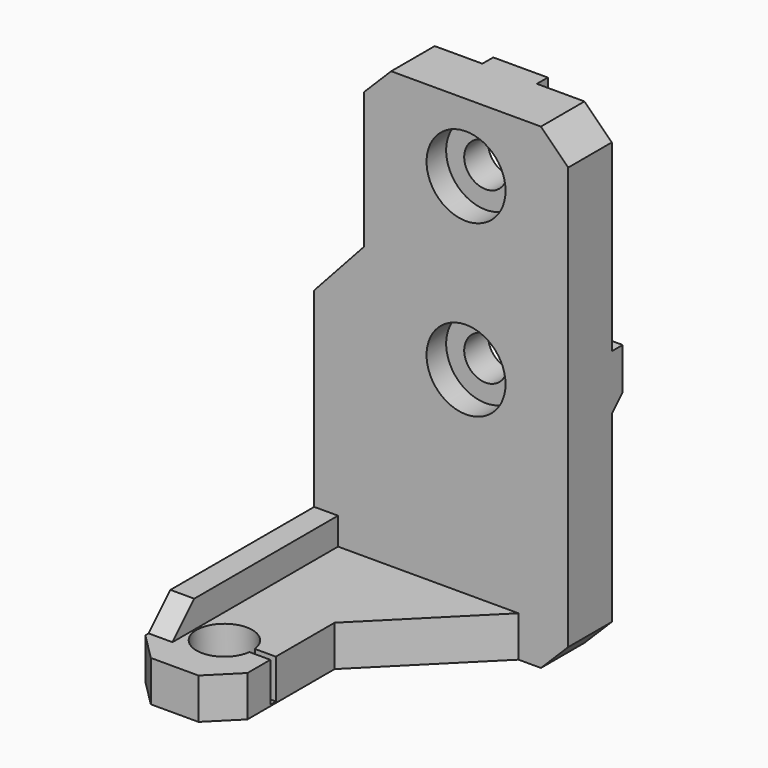
from build123d import *

# Parameters (mm, degrees)
SKETCH_W        = 30
SKETCH_H        = 70
PAD_DEPTH       = 8
PAD001_DEPTH    = 8
SKETCH002_W     = 15
SKETCH002_H     = 43
PAD002_DEPTH    = 6
SKETCH003_R     = 4.1
POCKET_DEPTH    = 70.001
PAD003_DEPTH    = 3.5
CHAMFER_SIZE    = 15
SKETCH005_R     = 3.15
POCKET001_DEPTH = 8.001
SKETCH006_R     = 5.8
POCKET002_DEPTH = 3.6
CHAMFER001_SIZE = 4
CHAMFER002_SIZE = 4
CHAMFER003_SIZE = 3
SKETCH007_W     = 10.5
SKETCH007_H     = 8
SKETCH007_W_2   = 8
SKETCH007_H_2   = 5
SKETCH007_H_3   = 5.5
PAD004_DEPTH    = 2
CHAMFER004_SIZE = 1.9
SKETCH008_W     = 3.080602
SKETCH008_H     = 1
POCKET003_DEPTH = 5.8


with BuildPart() as part:
    # Sketch → Pad (new body)
    with BuildSketch(Plane.XZ):
        with Locations((22.3, 35)):
            Rectangle(SKETCH_W, SKETCH_H)
    extrude(amount=PAD_DEPTH)

    # Sketch001 (on Face6 of Pad) → Pad001 (join)
    with BuildSketch(Plane.XZ.offset(8)):
        Polygon((7.3, 46), (0, 38), (0, 0), (7.3, 0), align=None)
    extrude(amount=-PAD001_DEPTH)

    # Sketch002 (on Face8 of Pad001) → Pad002 (join)
    with BuildSketch(Plane(origin=(0, 0, 0), x_dir=(1, 0, 0), z_dir=(0, 0, -1))):
        with Locations((7.5, 21.5)):
            Rectangle(SKETCH002_W, SKETCH002_H)
    extrude(amount=-PAD002_DEPTH)

    # Sketch003 (on Face10 of Pad002) → Pocket (cut, through all)
    with BuildSketch(Plane(origin=(0, 0, 0), x_dir=(1, 0, 0), z_dir=(0, 0, -1))):
        with Locations((7.85, 34.3)):
            Circle(SKETCH003_R)
    extrude(amount=-POCKET_DEPTH, mode=Mode.SUBTRACT)

    # Sketch004 (on Face8 of Pocket) → Pad003 (join)
    with BuildSketch(Plane(origin=(0, 0, 0), x_dir=(0, 0, -1), z_dir=(-1, 0, 0))):
        Polygon((-6, 8), (-6, 38.4), (-10, 34.4), (-10, 8), align=None)
    extrude(amount=-PAD003_DEPTH)

    # Chamfer
    chamfer_edges = [part.edges().sort_by_distance(p)[0] for p in [
        (15, -8, 3),
    ]]
    chamfer(chamfer_edges, length=CHAMFER_SIZE)

    # Sketch005 (on Face1 of Chamfer) → Pocket001 (cut, through all)
    with BuildSketch(Plane.XZ.offset(8)):
        with Locations((22.3, 35)):
            Circle(SKETCH005_R)
        with Locations((22.3, 60)):
            Circle(SKETCH005_R)
    extrude(amount=-POCKET001_DEPTH, mode=Mode.SUBTRACT)

    # Sketch006 (on Face1 of Pocket001) → Pocket002 (cut)
    with BuildSketch(Plane.XZ.offset(8)):
        with Locations((22.3, 60)):
            Circle(SKETCH006_R)
        with Locations((22.3, 35)):
            Circle(SKETCH006_R)
    extrude(amount=-POCKET002_DEPTH, mode=Mode.SUBTRACT)

    # Chamfer001
    chamfer001_edges = [part.edges().sort_by_distance(p)[0] for p in [
        (37.3, -4, 70),
        (7.3, -4, 70),
        (37.3, -4, 0),
    ]]
    chamfer(chamfer001_edges, length=CHAMFER001_SIZE)

    # Chamfer002
    chamfer002_edges = [part.edges().sort_by_distance(p)[0] for p in [
        (15, -43, 3),
        (0, -43, 3),
    ]]
    chamfer(chamfer002_edges, length=CHAMFER002_SIZE)

    # Chamfer003
    chamfer003_edges = [part.edges().sort_by_distance(p)[0] for p in [
        (0, 0, 19),
    ]]
    chamfer(chamfer003_edges, length=CHAMFER003_SIZE)

    # Sketch007 (on Face5 of Chamfer003) → Pad004 (join)
    with BuildSketch(Plane(origin=(0, 0, 0), x_dir=(1, 0, 0), z_dir=(0, 1, 0))):
        with Locations((12.55, -35)):
            Rectangle(SKETCH007_W, SKETCH007_H)
        with Locations((32.05, -35)):
            Rectangle(SKETCH007_W, SKETCH007_H)
        with Locations((22.3, -53)):
            Rectangle(SKETCH007_W_2, SKETCH007_H_2)
        with Locations((22.3, -67.25)):
            Rectangle(SKETCH007_W_2, SKETCH007_H_3)
    extrude(amount=PAD004_DEPTH)

    # Chamfer004
    chamfer004_edges = [part.edges().sort_by_distance(p)[0] for p in [
        (32.05, 2, 31),
        (12.55, 2, 31),
        (22.3, 2, 50.5),
        (22.3, 2, 64.5),
    ]]
    chamfer(chamfer004_edges, length=CHAMFER004_SIZE)

    # Sketch008 (on Face43 of Chamfer004) → Pocket003 (cut)
    with BuildSketch(Plane(origin=(0, 0, 6), x_dir=(-1, 0, 0), z_dir=(0, 0, 1))):
        with Locations((-13.459699, 34.3)):
            Rectangle(SKETCH008_W, SKETCH008_H)
    extrude(amount=-POCKET003_DEPTH, mode=Mode.SUBTRACT)


solid = part.part
